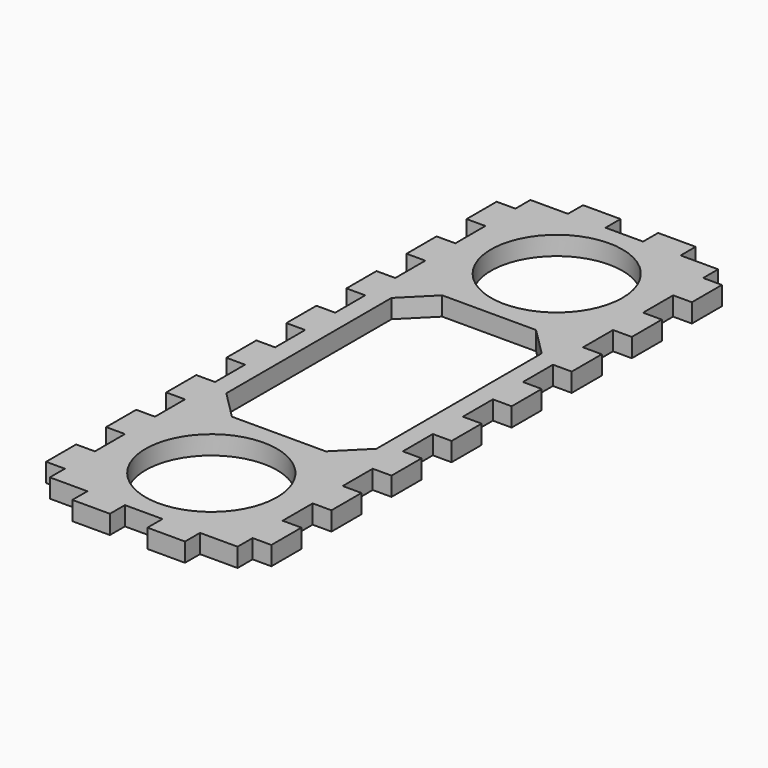
from build123d import *

# Parameters (mm, degrees)
F0_W     = 38.1
F0_H     = 107.95
F0_R     = 11.1125
F1_DEPTH = 3.175
F2_W     = 3.175
F2_H     = 6.35
F2_W_2   = 25.4
F2_H_2   = 44.45
F3_DEPTH = 3.175
F4_W     = 6.35
F4_H     = 3.175
F5_DEPTH = 3.175
F6_SIZE  = 4.7625


with BuildPart() as f1:
    # F0 (on Top) → F1 (new body)
    with BuildSketch(Plane.XY):
        with Locations((19.05, -53.975)):
            Rectangle(F0_W, F0_H)
        with Locations((19.05, -90.4875)):
            Circle(F0_R, mode=Mode.SUBTRACT)
        with Locations((19.05, -17.4625)):
            Circle(F0_R, mode=Mode.SUBTRACT)
    extrude(amount=F1_DEPTH)

    # F2 (on face) → F3 (cut, through all)
    with BuildSketch(Plane.XY.offset(3.175)):
        with Locations((36.5125, -3.175)):
            Rectangle(F2_W, F2_H)
        with Locations((1.5875, -3.175)):
            Rectangle(F2_W, F2_H)
        with Locations((1.5875, -15.875)):
            Rectangle(F2_W, F2_H)
        with Locations((36.5125, -15.875)):
            Rectangle(F2_W, F2_H)
        with Locations((36.5125, -28.575)):
            Rectangle(F2_W, F2_H)
        with Locations((36.5125, -41.275)):
            Rectangle(F2_W, F2_H)
        with Locations((36.5125, -53.975)):
            Rectangle(F2_W, F2_H)
        with Locations((36.5125, -66.675)):
            Rectangle(F2_W, F2_H)
        with Locations((36.5125, -79.375)):
            Rectangle(F2_W, F2_H)
        with Locations((36.5125, -92.075)):
            Rectangle(F2_W, F2_H)
        with Locations((36.5125, -104.775)):
            Rectangle(F2_W, F2_H)
        with Locations((36.5125, -117.475)):
            Rectangle(F2_W, F2_H)
        with Locations((36.5125, -130.175)):
            Rectangle(F2_W, F2_H)
        with Locations((1.5875, -28.575)):
            Rectangle(F2_W, F2_H)
        with Locations((1.5875, -41.275)):
            Rectangle(F2_W, F2_H)
        with Locations((1.5875, -53.975)):
            Rectangle(F2_W, F2_H)
        with Locations((1.5875, -66.675)):
            Rectangle(F2_W, F2_H)
        with Locations((1.5875, -79.375)):
            Rectangle(F2_W, F2_H)
        with Locations((1.5875, -92.075)):
            Rectangle(F2_W, F2_H)
        with Locations((1.5875, -104.775)):
            Rectangle(F2_W, F2_H)
        with Locations((1.5875, -117.475)):
            Rectangle(F2_W, F2_H)
        with Locations((1.5875, -130.175)):
            Rectangle(F2_W, F2_H)
        with Locations((19.05, -53.975)):
            Rectangle(F2_W_2, F2_H_2)
    extrude(amount=-F3_DEPTH, mode=Mode.SUBTRACT)

    # F4 (on face) → F5 (cut, through all)
    with BuildSketch(Plane.XY.offset(3.175)):
        with Locations((19.05, -1.5875)):
            Rectangle(F4_W, F4_H)
        with Locations((31.75, -1.5875)):
            Rectangle(F4_W, F4_H)
        with Locations((6.35, -1.5875)):
            Rectangle(F4_W, F4_H)
        with Locations((31.75, -106.3625)):
            Rectangle(F4_W, F4_H)
        with Locations((6.35, -106.3625)):
            Rectangle(F4_W, F4_H)
        with Locations((19.05, -106.3625)):
            Rectangle(F4_W, F4_H)
    extrude(amount=-F5_DEPTH, mode=Mode.SUBTRACT)

    # F6
    f6_edges = [f1.edges().sort_by_distance(p)[0] for p in [
        (31.75, -31.75, 1.5875),
        (6.35, -31.75, 1.5875),
        (6.35, -76.2, 1.5875),
        (31.75, -76.2, 1.5875),
    ]]
    chamfer(f6_edges, length=F6_SIZE)


solid = f1.part
